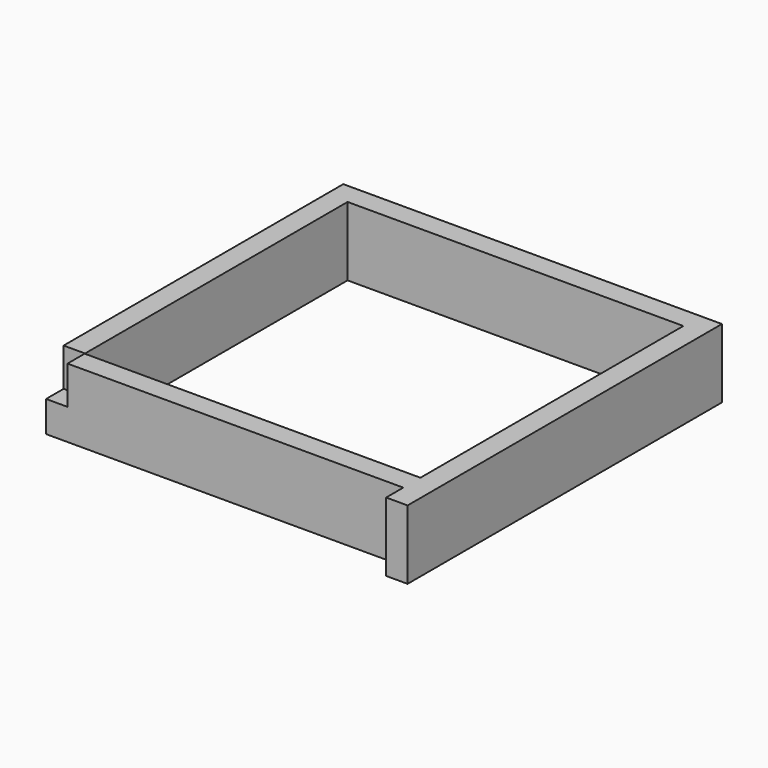
from build123d import *

# Parameters (mm, degrees)
F1_DEPTH = 145
F2_W     = 705
F2_H     = 690
F3_DEPTH = 145.001
F4_W     = 45
F4_H     = 46
F5_DEPTH = 80


with BuildPart() as f1:
    # F0 (on Top) → F1 (new body)
    with BuildSketch(Plane.XY):
        Polygon((397.5, 390), (-397.5, 390), (-397.5, -390), (352.5, -390), (352.5, -435), (397.5, -435), (397.5, -390), align=None)
    extrude(amount=F1_DEPTH)

    # F2 (on face) → F3 (cut, through all)
    with BuildSketch(Plane.XY.offset(145)):
        Rectangle(F2_W, F2_H)
    extrude(amount=-F3_DEPTH, mode=Mode.SUBTRACT)

    # F4 (on face) → F5 (cut)
    with BuildSketch(Plane.XY.offset(145)):
        with Locations((-375, -367)):
            Rectangle(F4_W, F4_H)
    extrude(amount=-F5_DEPTH, mode=Mode.SUBTRACT)


solid = f1.part
